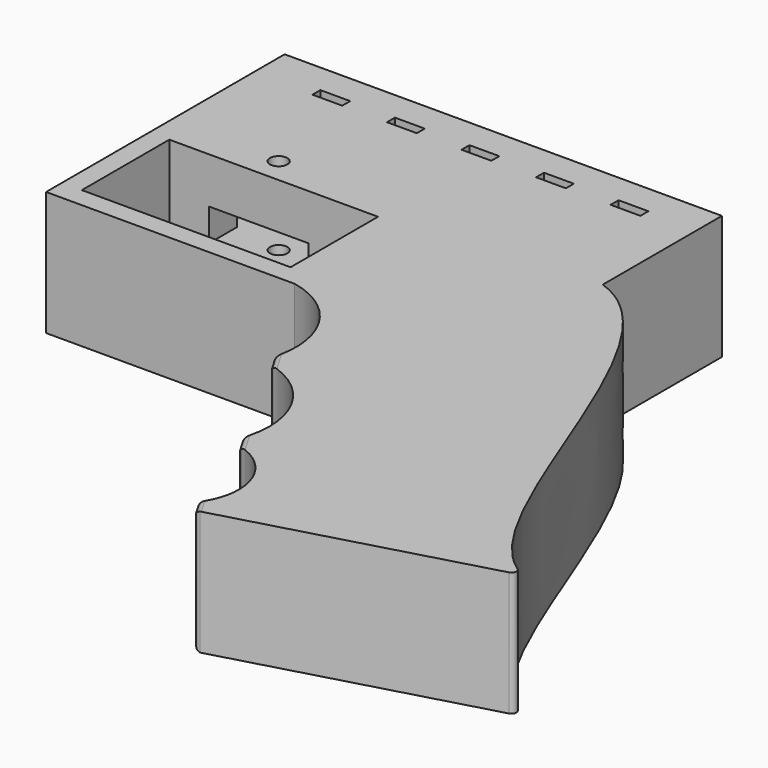
from build123d import *

# Parameters (mm, degrees)
F0_W     = 42
F0_H     = 22
F0_W_2   = 6
F0_H_2   = 2
F1_DEPTH = 25
F2_W     = 30
F2_H     = 19
F2_W_2   = 20
F2_H_2   = 6.5
F2_W_3   = 12
F3_DEPTH = 22
F4_DEPTH = 55
F5_DEPTH = 34
F6_DEPTH = 27
F7_R     = 1
F8_R     = 1.75
F9_DEPTH = 25.0010001


with BuildPart() as f1:
    # F0 (on Top) → F1 (new body)
    with BuildSketch(Plane.XY):
        Polygon((44, 30), (-44, 30), (-44, -30), (6, -30), (44, -30), (44, 0), align=None)
        with Locations((-19, -15)):
            Rectangle(F0_W, F0_H, mode=Mode.SUBTRACT)
        with Locations((-29, 23)):
            Rectangle(F0_W_2, F0_H_2, mode=Mode.SUBTRACT)
        with Locations((-14, 23)):
            Rectangle(F0_W_2, F0_H_2, mode=Mode.SUBTRACT)
        with Locations((1, 23)):
            Rectangle(F0_W_2, F0_H_2, mode=Mode.SUBTRACT)
        with Locations((16, 23)):
            Rectangle(F0_W_2, F0_H_2, mode=Mode.SUBTRACT)
        with Locations((31, 23)):
            Rectangle(F0_W_2, F0_H_2, mode=Mode.SUBTRACT)
        with BuildLine():
            add(Edge.make_bspline(
                [(44, 0), (67.8392201662, -7.6675033197), (76.1326849461, -76.210565865), (96, -85)],
                knots=[0, 0, 0, 0, 99.6443676281, 99.6443676281, 99.6443676281, 99.6443676281], degree=3))
            Line((44, 0), (44, -30))
            Line((44, -30), (6, -30))
            ThreePointArc((6, -30), (17.1808031069, -37.8263151446), (19.0039282867, -51.3517645433))
            Line((19.0039282867, -51.3517645433), (20.5282030185, -53.9356737024))
            ThreePointArc((20.5282030185, -53.9356737024), (31.2549165387, -62.3736345883), (32.3205438236, -75.9797363573))
            Line((32.3205438236, -75.9797363573), (33.8448185554, -78.5636455164))
            ThreePointArc((33.8448185554, -78.5636455164), (42.2422484339, -86.1981187462), (40.5220414274, -97.416090841))
            Line((40.5220414274, -97.416090841), (42.0463161591, -100))
            Line((42.0463161591, -100), (96, -85))
        make_face()
    extrude(amount=F1_DEPTH)

    # F2 (on face) → F3 (cut)
    with BuildSketch(Plane(origin=(0, 30, 0), x_dir=(-1, 0, 0), z_dir=(0, 1, 0))):
        Polygon((32, 22), (-11, 22), (-11, 3), (32, 3), (32, 9.25), (12, 9.25), (12, 15.75), (32, 15.75), align=None)
        with Locations((-26, 12.5)):
            Rectangle(F2_W, F2_H)
        with Locations((22, 12.5)):
            Rectangle(F2_W_2, F2_H_2)
        with Locations((38, 12.5)):
            Rectangle(F2_W_3, F2_H_2)
    extrude(amount=-F3_DEPTH, mode=Mode.SUBTRACT)

    # F2 (on face) → F4 (cut)
    with BuildSketch(Plane(origin=(0, 30, 0), x_dir=(-1, 0, 0), z_dir=(0, 1, 0))):
        with Locations((-26, 12.5)):
            Rectangle(F2_W, F2_H)
    extrude(amount=-F4_DEPTH, mode=Mode.SUBTRACT)

    # F2 (on face) → F5 (cut, through all)
    with BuildSketch(Plane(origin=(0, 30, 0), x_dir=(-1, 0, 0), z_dir=(0, 1, 0))):
        with Locations((22, 12.5)):
            Rectangle(F2_W_2, F2_H_2)
    extrude(amount=-F5_DEPTH, mode=Mode.SUBTRACT)

    # F2 (on face) → F6 (cut)
    with BuildSketch(Plane(origin=(0, 30, 0), x_dir=(-1, 0, 0), z_dir=(0, 1, 0))):
        with Locations((38, 12.5)):
            Rectangle(F2_W_3, F2_H_2)
    extrude(amount=-F6_DEPTH, mode=Mode.SUBTRACT)

    # F7
    f7_edges = [f1.edges().sort_by_distance(p)[0] for p in [
        (20.528203, -53.935674, 12.5),
        (19.003928, -51.351765, 12.5),
        (19.766066, -52.643719, 0),
        (19.766066, -52.643719, 25),
        (33.844819, -78.563646, 12.5),
        (32.320544, -75.979736, 12.5),
        (33.082681, -77.271691, 0),
        (33.082681, -77.271691, 25),
        (42.046316, -100, 12.5),
        (40.522041, -97.416091, 12.5),
        (41.284179, -98.708045, 0),
        (41.284179, -98.708045, 25),
        (96, -85, 12.5),
    ]]
    fillet(f7_edges, radius=F7_R)

    # F8 (on face) → F9 (cut, through all)
    with BuildSketch(Plane.XY.offset(25)):
        with Locations((-22, 1)):
            Circle(F8_R)
    extrude(amount=-F9_DEPTH, mode=Mode.SUBTRACT)


solid = f1.part
